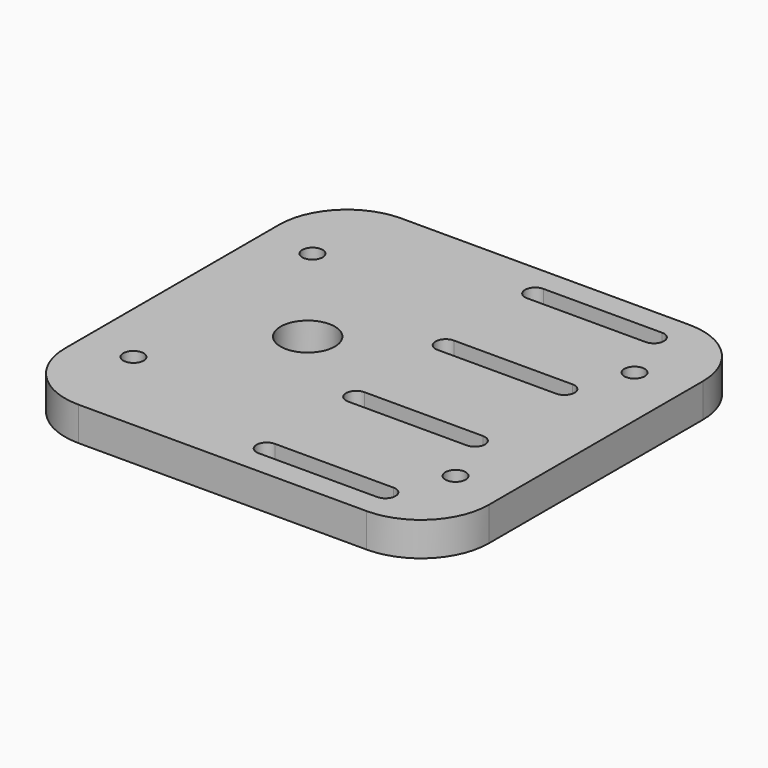
from build123d import *

# Parameters (mm, degrees)
SKETCH_W   = 125
SKETCH_H   = 119
SKETCH_R   = 8
SKETCH_R_2 = 3
PAD_DEPTH  = 10
FILLET_R   = 20


with BuildPart() as part:
    # Sketch → Pad (new body)
    with BuildSketch(Plane.XY):
        with Locations((-9.5, 100)):
            Rectangle(SKETCH_W, SKETCH_H)
        with Locations((-32, 100)):
            Circle(SKETCH_R, mode=Mode.SUBTRACT)
        with Locations((-57, 133)):
            Circle(SKETCH_R_2, mode=Mode.SUBTRACT)
        with Locations((-57, 67)):
            Circle(SKETCH_R_2, mode=Mode.SUBTRACT)
        with Locations((38, 133)):
            Circle(SKETCH_R_2, mode=Mode.SUBTRACT)
        with Locations((38, 67)):
            Circle(SKETCH_R_2, mode=Mode.SUBTRACT)
        with BuildLine():
            ThreePointArc((-4.5, 152.5), (-7.5, 149.5), (-4.5, 146.5))
            Line((-4.5, 146.5), (30.5, 146.5))
            ThreePointArc((30.5, 146.5), (33.5, 149.5), (30.5, 152.5))
            Line((-4.5, 152.5), (30.5, 152.5))
        make_face(mode=Mode.SUBTRACT)
        with BuildLine():
            ThreePointArc((-4.5, 119.5), (-7.5, 116.5), (-4.5, 113.5))
            Line((-4.5, 113.5), (30.5, 113.5))
            ThreePointArc((30.5, 113.5), (33.5, 116.5), (30.5, 119.5))
            Line((-4.5, 119.5), (30.5, 119.5))
        make_face(mode=Mode.SUBTRACT)
        with BuildLine():
            ThreePointArc((-4.5, 86.5), (-7.5, 83.5), (-4.5, 80.5))
            Line((-4.5, 80.5), (30.5, 80.5))
            ThreePointArc((30.5, 80.5), (33.5, 83.5), (30.5, 86.5))
            Line((-4.5, 86.5), (30.5, 86.5))
        make_face(mode=Mode.SUBTRACT)
        with BuildLine():
            ThreePointArc((-4.5, 53.5), (-7.5, 50.5), (-4.5, 47.5))
            Line((-4.5, 47.5), (30.5, 47.5))
            ThreePointArc((30.5, 47.5), (33.5, 50.5), (30.5, 53.5))
            Line((-4.5, 53.5), (30.5, 53.5))
        make_face(mode=Mode.SUBTRACT)
    extrude(amount=PAD_DEPTH)

    # Fillet
    fillet_edges = [part.edges().sort_by_distance(p)[0] for p in [
        (53, 40.5, 5),
        (53, 159.5, 5),
        (-72, 40.5, 5),
        (-72, 159.5, 5),
    ]]
    fillet(fillet_edges, radius=FILLET_R)


solid = part.part
